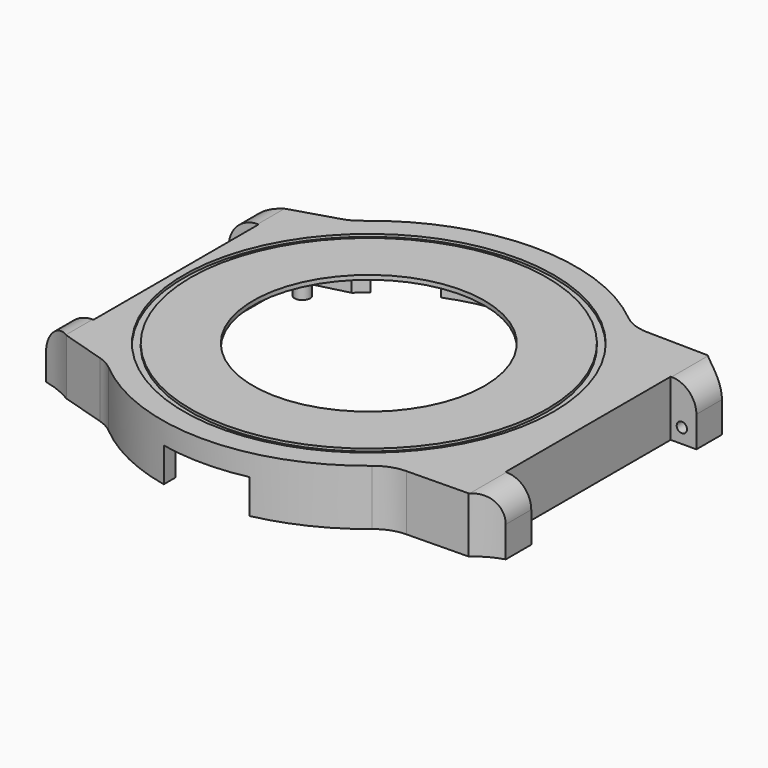
from build123d import *

# Parameters (mm, degrees)
PAD_DEPTH       = 6.5
POCKET_DEPTH    = 6
SKETCH002_R     = 13.5
POCKET001_DEPTH = 1
SKETCH003_W     = 5.4
SKETCH003_H     = 6.5
PAD001_DEPTH    = 3
POCKET002_DEPTH = 10
SKETCH008_R     = 0.6
POCKET003_DEPTH = 2
SKETCH009_R     = 0.6
POCKET004_DEPTH = 2
FILLET_R        = 2.9
FILLET001_R     = 2.9
FILLET002_R     = 5
FILLET003_R     = 5
FILLET004_R     = 5
FILLET005_R     = 5
SKETCH010_W     = 3.95
SKETCH010_H     = 6.5
PAD002_DEPTH    = 3.5
POCKET005_DEPTH = 10
SKETCH012_R     = 0.6
POCKET006_DEPTH = 2
SKETCH013_R     = 0.6
POCKET007_DEPTH = 2
FILLET006_R     = 3.4
FILLET007_R     = 3.4
SKETCH014_R     = 21.6
SKETCH014_R_2   = 20.8
POCKET008_DEPTH = 0.3
SKETCH015_R     = 0.9
PAD003_DEPTH    = 6
FILLET008_R     = 1
POCKET009_DEPTH = 4
POCKET010_DEPTH = 4


with BuildPart() as part:
    # Sketch → Pad (new body)
    with BuildSketch(Plane.XY):
        with BuildLine():
            Line((-22.5019915649, 16), (-22.5019915649, -16))
            Line((-22.5019915649, -16), (-16.2858834578, -17.9))
            ThreePointArc((-16.2858834578, -17.9), (0.2206895736, -24.1989937004), (16.6096357576, -17.6))
            Line((16.6096357576, -17.6), (25.6083856708, -17.45))
            Line((25.6083856708, 17.45), (25.6083856708, -17.45))
            Line((16.6096357576, 17.6), (25.6083856708, 17.45))
            ThreePointArc((16.6096357576, 17.6), (0.2206895736, 24.1989937004), (-16.2858834578, 17.9))
            Line((-22.5019915649, 16), (-16.2858834578, 17.9))
        make_face()
    extrude(amount=PAD_DEPTH)

    # Sketch001 → Pocket (cut)
    with BuildSketch(Plane.XY):
        with BuildLine():
            Line((-15.2429491897, 16.55), (-20.5746937447, 15.2))
            Line((-20.5746937447, 15.2), (-20.5746937447, -15.2))
            Line((-20.5746937447, -15.2), (-15.2429491897, -16.55))
            ThreePointArc((-15.2429491897, -16.55), (0, -22.5), (15.2429491897, -16.55))
            Line((15.2429491897, -16.55), (23.5278752606, -16.05))
            Line((23.5278752606, 16.05), (23.5278752606, -16.05))
            Line((15.2429491897, 16.55), (23.5278752606, 16.05))
            ThreePointArc((15.2429491897, 16.55), (0, 22.5), (-15.2429491897, 16.55))
        make_face()
    extrude(amount=POCKET_DEPTH, mode=Mode.SUBTRACT)

    # Sketch002 (on Face19 of Pocket) → Pocket001 (cut)
    with BuildSketch(Plane(origin=(0, 0, 6), x_dir=(1, 0, 0), z_dir=(0, 0, -1))):
        Circle(SKETCH002_R)
    extrude(amount=-POCKET001_DEPTH, mode=Mode.SUBTRACT)

    # Sketch003 (on Face6 of Pocket001) → Pad001 (join)
    with BuildSketch(Plane.YZ.offset(25.6083856708)):
        with Locations((-14.75, 3.25)):
            Rectangle(SKETCH003_W, SKETCH003_H)
        with Locations((14.75, 3.25)):
            Rectangle(SKETCH003_W, SKETCH003_H)
    extrude(amount=PAD001_DEPTH)

    # Sketch006 → Pocket002 (cut)
    with BuildSketch(Plane.XY.offset(6.5)):
        with BuildLine():
            ThreePointArc((25.6083856708, 17.45), (27.0135397777, 16.4426436477), (28.6083856708, 15.775042373))
            Line((28.6083856708, 17.45), (28.6083856708, 15.775042373))
            Line((28.6083856708, 17.45), (25.6083856708, 17.45))
        make_face()
        with BuildLine():
            ThreePointArc((28.6083856708, -15.775042373), (27.0135397777, -16.4426436477), (25.6083856708, -17.45))
            Line((28.6083856708, -17.45), (25.6083856708, -17.45))
            Line((28.6083856708, -15.775042373), (28.6083856708, -17.45))
        make_face()
    extrude(amount=-POCKET002_DEPTH, mode=Mode.SUBTRACT)

    # Sketch008 (on Face27 of Pocket002) → Pocket003 (cut)
    with BuildSketch(Plane(origin=(0, -12.05, 0), x_dir=(-1, 0, 0), z_dir=(0, 1, 0))):
        with Locations((-26.9083856708, 1.7)):
            Circle(SKETCH008_R)
    extrude(amount=-POCKET003_DEPTH, mode=Mode.SUBTRACT)

    # Sketch009 (on Face26 of Pocket003) → Pocket004 (cut)
    with BuildSketch(Plane.XZ.offset(-12.05)):
        with Locations((26.9083856708, 1.7)):
            Circle(SKETCH009_R)
    extrude(amount=-POCKET004_DEPTH, mode=Mode.SUBTRACT)

    # Fillet
    fillet_edges = [part.edges().sort_by_distance(p)[0] for p in [
        (28.608386, -13.912521, 6.5),
    ]]
    fillet(fillet_edges, radius=FILLET_R)

    # Fillet001
    fillet001_edges = [part.edges().sort_by_distance(p)[0] for p in [
        (28.608386, 13.912521, 6.5),
    ]]
    fillet(fillet001_edges, radius=FILLET001_R)

    # Fillet002
    fillet002_edges = [part.edges().sort_by_distance(p)[0] for p in [
        (16.609636, -17.6, 3.25),
    ]]
    fillet(fillet002_edges, radius=FILLET002_R)

    # Fillet003
    fillet003_edges = [part.edges().sort_by_distance(p)[0] for p in [
        (16.609636, 17.6, 3.25),
    ]]
    fillet(fillet003_edges, radius=FILLET003_R)

    # Fillet004
    fillet004_edges = [part.edges().sort_by_distance(p)[0] for p in [
        (-16.285883, -17.9, 3.25),
    ]]
    fillet(fillet004_edges, radius=FILLET004_R)

    # Fillet005
    fillet005_edges = [part.edges().sort_by_distance(p)[0] for p in [
        (-16.285883, 17.9, 3.25),
    ]]
    fillet(fillet005_edges, radius=FILLET005_R)

    # Sketch010 (on Face4 of Fillet005) → Pad002 (join)
    with BuildSketch(Plane(origin=(-22.5019915649, 0, 0), x_dir=(0, -1, 0), z_dir=(-1, 0, 0))):
        with Locations((-14.025, 3.25)):
            Rectangle(SKETCH010_W, SKETCH010_H)
        with Locations((14.025, 3.25)):
            Rectangle(SKETCH010_W, SKETCH010_H)
    extrude(amount=PAD002_DEPTH)

    # Sketch011 (on Face6 of Pad002) → Pocket005 (cut)
    with BuildSketch(Plane.XY.offset(6.5)):
        with BuildLine():
            ThreePointArc((-26.0019915649, 14.6), (-24.1926075875, 15.1515400564), (-22.5019915649, 16))
            Line((-22.5019915649, 16), (-26.0019915649, 16))
            Line((-26.0019915649, 16), (-26.0019915649, 14.6))
        make_face()
        with BuildLine():
            ThreePointArc((-22.5019915649, -16), (-24.1926075875, -15.1515400564), (-26.0019915649, -14.6))
            Line((-26.0019915649, -14.6), (-26.0019915649, -16))
            Line((-26.0019915649, -16), (-22.5019915649, -16))
        make_face()
    extrude(amount=-POCKET005_DEPTH, mode=Mode.SUBTRACT)

    # Sketch012 (on Face23 of Pocket005) → Pocket006 (cut)
    with BuildSketch(Plane(origin=(0, -12.05, 0), x_dir=(-1, 0, 0), z_dir=(0, 1, 0))):
        with Locations((24.3019915649, 1.7)):
            Circle(SKETCH012_R)
    extrude(amount=-POCKET006_DEPTH, mode=Mode.SUBTRACT)

    # Sketch013 (on Face21 of Pocket006) → Pocket007 (cut)
    with BuildSketch(Plane.XZ.offset(-12.05)):
        with Locations((-24.3019915649, 1.7)):
            Circle(SKETCH013_R)
    extrude(amount=-POCKET007_DEPTH, mode=Mode.SUBTRACT)

    # Fillet006
    fillet006_edges = [part.edges().sort_by_distance(p)[0] for p in [
        (-26.001992, 13.325, 6.5),
    ]]
    fillet(fillet006_edges, radius=FILLET006_R)

    # Fillet007
    fillet007_edges = [part.edges().sort_by_distance(p)[0] for p in [
        (-26.001992, -13.325, 6.5),
    ]]
    fillet(fillet007_edges, radius=FILLET007_R)

    # Sketch014 (on Face4 of Fillet007) → Pocket008 (cut)
    with BuildSketch(Plane.XY.offset(6.5)):
        Circle(SKETCH014_R)
        Circle(SKETCH014_R_2, mode=Mode.SUBTRACT)
    extrude(amount=-POCKET008_DEPTH, mode=Mode.SUBTRACT)

    # Sketch015 (on Face55 of Pocket008) → Pad003 (join)
    with BuildSketch(Plane(origin=(0, 0, 6), x_dir=(1, 0, 0), z_dir=(0, 0, -1))):
        with Locations((-18.42, 13.32)):
            Circle(SKETCH015_R)
        with Locations((-18.42, -13.32)):
            Circle(SKETCH015_R)
        with Locations((7.27, 18.56)):
            Circle(SKETCH015_R)
        with Locations((5.37, -19.79)):
            Circle(SKETCH015_R)
    extrude(amount=PAD003_DEPTH)

    # Fillet008
    fillet008_edges = [part.edges().sort_by_distance(p)[0] for p in [
        (-19.32, -13.32, 6),
        (6.37, -18.56, 6),
        (-19.32, 13.32, 6),
        (4.47, 19.79, 6),
    ]]
    fillet(fillet008_edges, radius=FILLET008_R)

    # Sketch016 (on Face16 of Fillet008) → Pocket009 (cut)
    with BuildSketch(Plane(origin=(0, 0, 0), x_dir=(1, 0, 0), z_dir=(0, 0, -1))):
        with BuildLine():
            Line((-5, 23.6778377391), (-5, 21.9374109685))
            ThreePointArc((5, 21.9374109685), (0, 22.5), (-5, 21.9374109685))
            Line((5, 23.6778377391), (5, 21.9374109685))
            ThreePointArc((5, 23.6778377391), (0, 24.2), (-5, 23.6778377391))
        make_face()
    extrude(amount=-POCKET009_DEPTH, mode=Mode.SUBTRACT)

    # Sketch017 (on Face16 of Pocket009) → Pocket010 (cut)
    with BuildSketch(Plane(origin=(0, 0, 0), x_dir=(1, 0, 0), z_dir=(0, 0, -1))):
        with BuildLine():
            Line((-3.499984119, -22.2261132717), (-3.5, -23.9455632634))
            ThreePointArc((-3.5, -23.9455632634), (0, -24.2000019575), (3.5, -23.9455632634))
            Line((3.5000158811, -22.2261082701), (3.5, -23.9455632634))
            ThreePointArc((-3.499984119, -22.2261132717), (1.60767e-05, -22.5), (3.5000158811, -22.2261082701))
        make_face()
        with BuildLine():
            ThreePointArc((-13.9498796389, -17.6536358312), (-11.25, -19.4855715851), (-8.3135572795, -20.9077680626))
            Line((-8.3135572795, -20.9077680626), (-8.9416927184, -22.487466094))
            ThreePointArc((-15.0038705449, -18.987466094), (-12.1, -20.9578147716), (-8.9416927184, -22.487466094))
            Line((-13.9498796389, -17.6536358312), (-15.0038705449, -18.987466094))
        make_face()
        with BuildLine():
            ThreePointArc((8.3135572795, -20.9077680626), (11.25, -19.4855715851), (13.9498796389, -17.6536358312))
            Line((13.9498796389, -17.6536358312), (15.0038705449, -18.987466094))
            ThreePointArc((8.9416927184, -22.487466094), (12.1, -20.9578147716), (15.0038705449, -18.987466094))
            Line((8.3135572795, -20.9077680626), (8.9416927184, -22.487466094))
        make_face()
    extrude(amount=-POCKET010_DEPTH, mode=Mode.SUBTRACT)


solid = part.part
